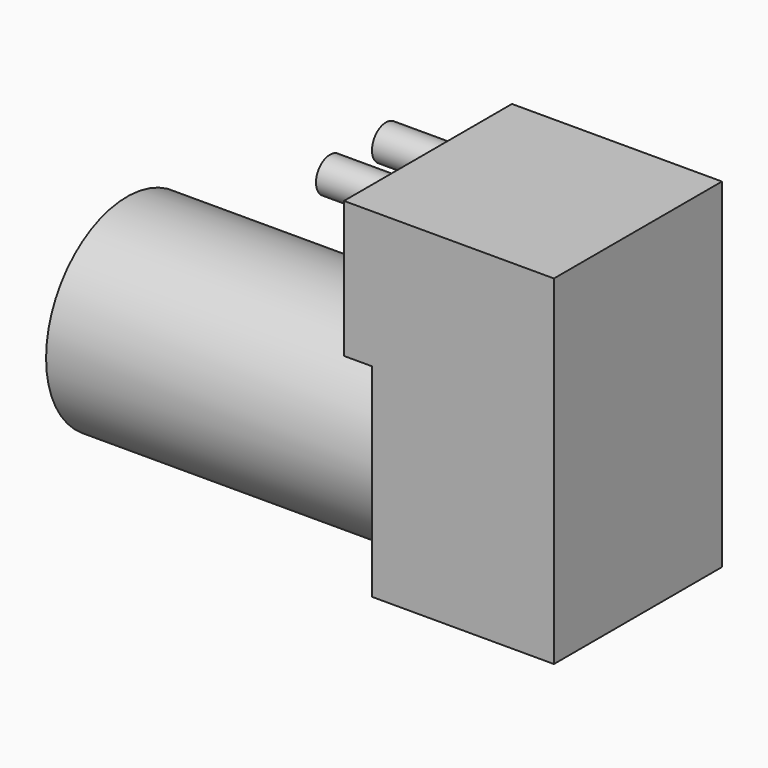
from build123d import *

# Parameters (mm, degrees)
F0_W     = 30
F0_H     = 30
F1_DEPTH = 48.5
F2_W     = 4
F2_H     = 30
F3_DEPTH = 29
F4_R     = 14.45
F5_DEPTH = 47
F6_R     = 2.5
F7_DEPTH = 10


with BuildPart() as f1:
    # F0 (on Top) → F1 (new body)
    with BuildSketch(Plane.XY):
        Rectangle(F0_W, F0_H)
    extrude(amount=F1_DEPTH)

    # F2 (on face) → F3 (cut)
    with BuildSketch(Plane(origin=(0, 0, 0), x_dir=(1, 0, 0), z_dir=(0, 0, -1))):
        with Locations((-13, 0)):
            Rectangle(F2_W, F2_H)
    extrude(amount=-F3_DEPTH, mode=Mode.SUBTRACT)

    # F4 (on face) → F5 (join)
    with BuildSketch(Plane(origin=(-11, 0, 0), x_dir=(0, -1, 0), z_dir=(-1, 0, 0))):
        with Locations((0, 14.5)):
            Circle(F4_R)
    extrude(amount=F5_DEPTH)

    # F6 (on face) → F7 (join)
    with BuildSketch(Plane(origin=(-15, 0, 0), x_dir=(0, -1, 0), z_dir=(-1, 0, 0))):
        with Locations((5, 44.5)):
            Circle(F6_R)
        with Locations((-5, 44.5)):
            Circle(F6_R)
    extrude(amount=F7_DEPTH)


solid = f1.part
